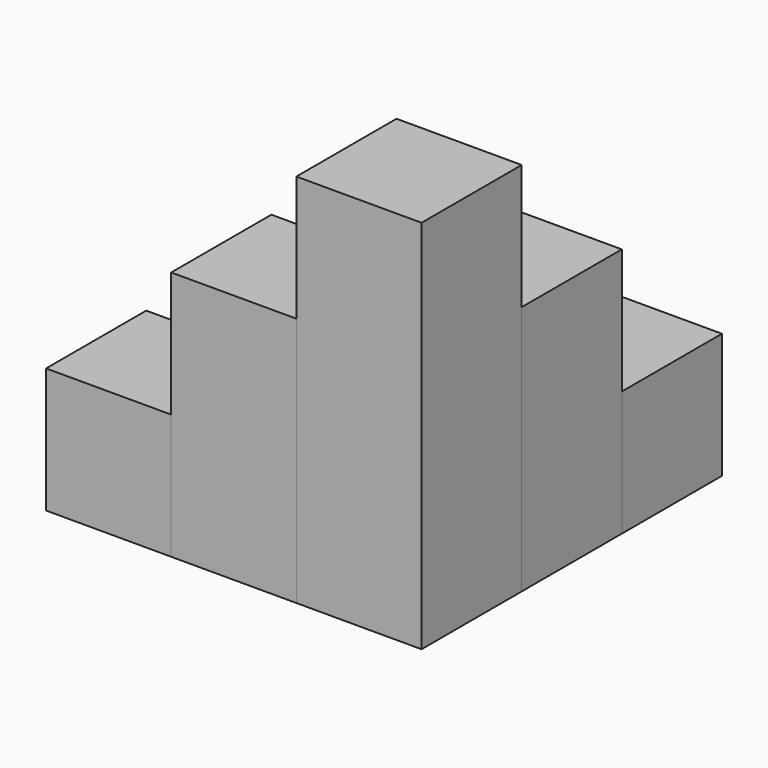
from build123d import *

# Parameters (mm, degrees)
BOX_W        = 10
BOX_H        = 10
BOX_DEPTH    = 10
BOX003_W     = 10
BOX003_H     = 10
BOX003_DEPTH = 20
BOX005_W     = 10
BOX005_H     = 10
BOX005_DEPTH = 30
BOX007_W     = 10
BOX007_H     = 10
BOX007_DEPTH = 20
BOX008_W     = 10
BOX008_H     = 10
BOX008_DEPTH = 10
BOX009_W     = 10
BOX009_H     = 10
BOX009_DEPTH = 10


with BuildPart() as cub:
    # Box → Box (new body)
    with BuildSketch(Plane(origin=(-10, 0, 0), x_dir=(1, 0, 0), z_dir=(0, 0, 1))):
        with Locations((5, 5)):
            Rectangle(BOX_W, BOX_H)
    extrude(amount=BOX_DEPTH)


with BuildPart() as cub003:
    # Box003 → Box003 (new body)
    with BuildSketch(Plane(origin=(10, 10, 0), x_dir=(1, 0, 0), z_dir=(0, 0, 1))):
        with Locations((5, 5)):
            Rectangle(BOX003_W, BOX003_H)
    extrude(amount=BOX003_DEPTH)


with BuildPart() as cub005:
    # Box005 → Box005 (new body)
    with BuildSketch(Plane(origin=(10, 0, 0), x_dir=(1, 0, 0), z_dir=(0, 0, 1))):
        with Locations((5, 5)):
            Rectangle(BOX005_W, BOX005_H)
    extrude(amount=BOX005_DEPTH)


with BuildPart() as cub007:
    # Box007 → Box007 (new body)
    with BuildSketch(Plane.XY):
        with Locations((5, 5)):
            Rectangle(BOX007_W, BOX007_H)
    extrude(amount=BOX007_DEPTH)


with BuildPart() as cub008:
    # Box008 → Box008 (new body)
    with BuildSketch(Plane(origin=(0, 10, 0), x_dir=(1, 0, 0), z_dir=(0, 0, 1))):
        with Locations((5, 5)):
            Rectangle(BOX008_W, BOX008_H)
    extrude(amount=BOX008_DEPTH)


with BuildPart() as cub009:
    # Box009 → Box009 (new body)
    with BuildSketch(Plane(origin=(10, 20, 0), x_dir=(1, 0, 0), z_dir=(0, 0, 1))):
        with Locations((5, 5)):
            Rectangle(BOX009_W, BOX009_H)
    extrude(amount=BOX009_DEPTH)


solid = Compound([cub.part, cub003.part, cub005.part, cub007.part, cub008.part, cub009.part])
